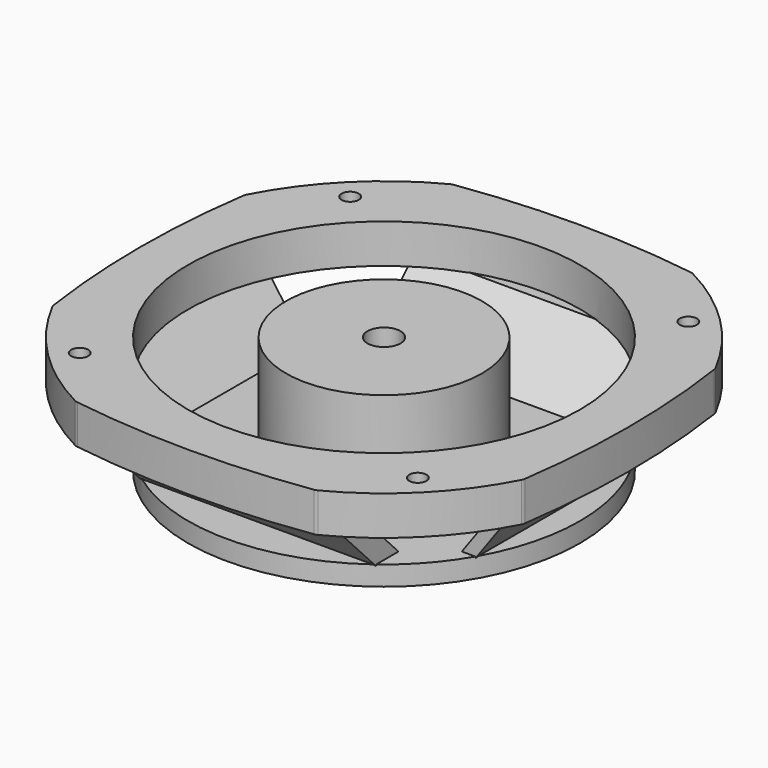
from build123d import *

# Parameters (mm, degrees)
F0_R      = 254
F1_DEPTH  = 25.4
F3_R      = 254
F4_DEPTH  = 50.8
F6_DEPTH  = 127
F8_DEPTH  = 152.4
F9_R      = 127
F10_DEPTH = 127
F11_R     = 21.463
F12_DEPTH = 152.401
F13_R     = 11.1125
F14_DEPTH = 50.801


with BuildPart() as f1:
    # F0 (on Top) → F1 (new body)
    with BuildSketch(Plane.XY):
        Circle(F0_R)
    extrude(amount=F1_DEPTH)



with BuildPart() as f4:
    # F3 (on offset) → F4 (new body)
    with BuildSketch(Plane.XY.offset(152.4)):
        with BuildLine():
            ThreePointArc((-305.1073144143, -153.3185779875), (-304.6298197167, -155.3799861666), (-303.8166886514, -157.3335016483))
            ThreePointArc((-303.8166886514, -157.3335016483), (-241.9280999016, -241.9280999016), (-157.3335016483, -303.8166886514))
            ThreePointArc((-157.3335016483, -303.8166886514), (-155.3799861666, -304.6298197167), (-153.3185779875, -305.1073144143))
            ThreePointArc((-153.3185779875, -305.1073144143), (0, -316.1821353814), (153.3185779875, -305.1073144143))
            ThreePointArc((153.3185779875, -305.1073144143), (155.3799861666, -304.6298197167), (157.3335016483, -303.8166886514))
            ThreePointArc((157.3335016483, -303.8166886514), (241.9280999016, -241.9280999016), (303.8166886514, -157.3335016483))
            ThreePointArc((303.8166886514, -157.3335016483), (304.6298197167, -155.3799861666), (305.1073144143, -153.3185779875))
            ThreePointArc((305.1073144143, -153.3185779875), (316.1821353814, 0), (305.1073144143, 153.3185779875))
            ThreePointArc((305.1073144143, 153.3185779875), (304.6298197167, 155.3799861666), (303.8166886514, 157.3335016483))
            ThreePointArc((303.8166886514, 157.3335016483), (241.9280999016, 241.9280999016), (157.3335016483, 303.8166886514))
            ThreePointArc((157.3335016483, 303.8166886514), (155.3799861666, 304.6298197167), (153.3185779875, 305.1073144143))
            ThreePointArc((153.3185779875, 305.1073144143), (0, 316.1821353814), (-153.3185779875, 305.1073144143))
            ThreePointArc((-153.3185779875, 305.1073144143), (-155.3799861666, 304.6298197167), (-157.3335016483, 303.8166886514))
            ThreePointArc((-157.3335016483, 303.8166886514), (-241.9280999016, 241.9280999016), (-303.8166886514, 157.3335016483))
            ThreePointArc((-303.8166886514, 157.3335016483), (-304.6298197167, 155.3799861666), (-305.1073144143, 153.3185779875))
            ThreePointArc((-305.1073144143, 153.3185779875), (-316.1821353814, 0), (-305.1073144143, -153.3185779875))
        make_face()
        Circle(F3_R, mode=Mode.SUBTRACT)
    extrude(amount=-F4_DEPTH)


with BuildPart() as f1_1:
    add(f1.part)

    add(f4.part)  # F6 merges F4
    # F5 (on Front) → F6 (join, symmetric)
    with BuildSketch(Plane.XZ):
        Polygon((-279.2956233025, 105.3081825376), (-203.2, 0), (-196.8173876795, 17.664473254), (-260.1486742496, 105.3081825376), align=None)
        Polygon((196.8173876795, 17.664473254), (203.2, 0), (279.2956233025, 105.3081825376), (260.1486742496, 105.3081825376), align=None)
    extrude(amount=F6_DEPTH, both=True)

    # F7 (on Right) → F8 (join, symmetric)
    with BuildSketch(Plane.YZ):
        Polygon((165.1, 23.3656521887), (203.2, 23.3656521887), (278.463602066, 101.9842028618), (240.363602066, 101.9842028618), align=None)
        Polygon((-278.463602066, 101.9842028618), (-203.2, 23.3656521887), (-165.1, 23.3656521887), (-240.363602066, 101.9842028618), align=None)
    extrude(amount=F8_DEPTH, both=True)

    # F9 (on face) → F10 (join)
    with BuildSketch(Plane.XY.offset(25.4)):
        Circle(F9_R)
    extrude(amount=F10_DEPTH)

    # F11 (on face) → F12 (cut, through all)
    with BuildSketch(Plane.XY.offset(152.4)):
        Circle(F11_R)
    extrude(amount=-F12_DEPTH, mode=Mode.SUBTRACT)

    # F13 (on face) → F14 (cut, through all)
    with BuildSketch(Plane(origin=(0, 0, 101.6), x_dir=(1, 0, 0), z_dir=(0, 0, -1))):
        with Locations((219.075, 219.075)):
            Circle(F13_R)
        with Locations((219.075, -219.075)):
            Circle(F13_R)
        with Locations((-219.075, -219.075)):
            Circle(F13_R)
        with Locations((-219.075, 219.075)):
            Circle(F13_R)
    extrude(amount=-F14_DEPTH, mode=Mode.SUBTRACT)


solid = f1_1.part
